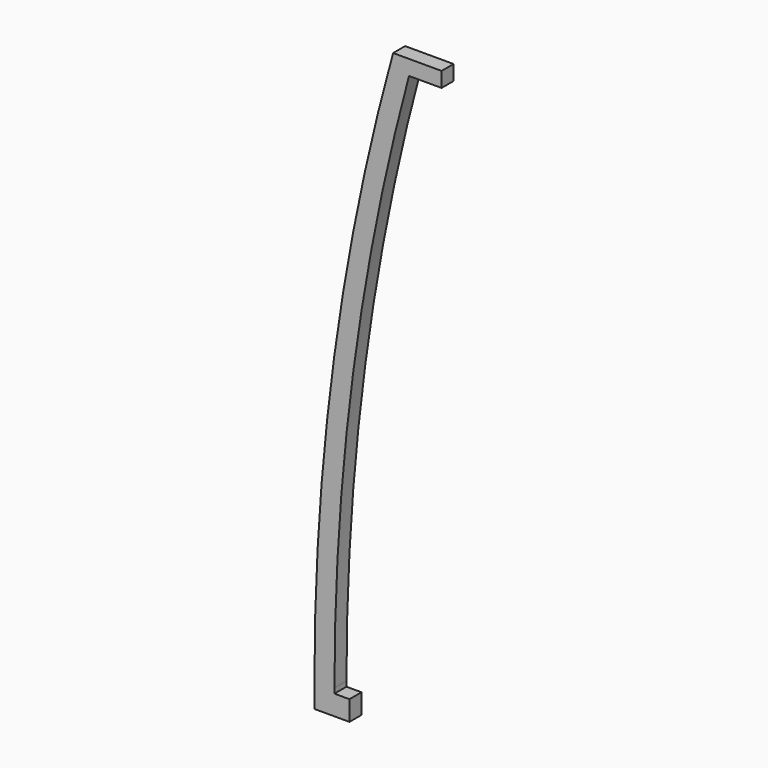
from build123d import *

# Parameters (mm, degrees)
F1_DEPTH = 6
F2_DEPTH = 6
F3_DEPTH = 2


with BuildPart() as f1:
    # F0 (on Front) → F1 (new body)
    with BuildSketch(Plane.XZ):
        with BuildLine():
            Line((-17.2, 235), (-4.2, 235))
            Line((-4.2, 235), (-4.2, 241))
            Line((-4.2, 241), (-23.5591068412, 241))
            ThreePointArc((-23.5591068412, 241), (-47.1037067536, 126.5649280043), (-55, 10))
            Line((-55, 10), (-55, 0))
            Line((-55, 0), (-47, 0))
            Line((-47, 0), (-47, 10))
            ThreePointArc((-47, 10), (-39.5176123458, 123.4824215462), (-17.2, 235))
        make_face()
    extrude(amount=F1_DEPTH)

    # F2 (add): a face of the model
    f2_faces = [f1.faces().sort_by_distance(p)[0] for p in [
        (-47, -3, 5),
    ]]
    extrude(f2_faces, amount=F2_DEPTH)

    # F3 (cut): a face of the model
    f3_faces = [f1.faces().sort_by_distance(p)[0] for p in [
        (-44, -3, 10),
    ]]
    extrude(f3_faces, amount=-F3_DEPTH, mode=Mode.SUBTRACT)


solid = f1.part
